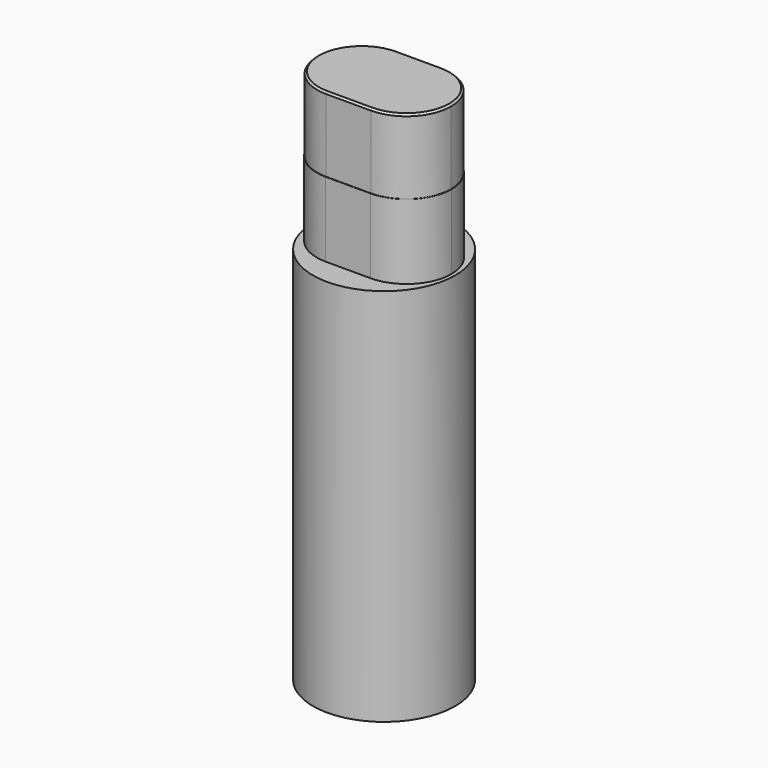
from build123d import *

# Parameters (mm, degrees)
F0_R     = 9.525
F1_DEPTH = 50.8
F3_DEPTH = 10
F5_DEPTH = 10
F6_SIZE  = 0.25


with BuildPart() as f1:
    # F0 (on Top) → F1 (new body)
    with BuildSketch(Plane.XY):
        Circle(F0_R)
    extrude(amount=F1_DEPTH)

    # F2 (on face) → F3 (join)
    with BuildSketch(Plane.XY.offset(50.8)):
        with BuildLine():
            Line((0, 6.025), (0, 0))
            Line((0, 0), (3, 0))
            Line((3, 0), (9.025, 0))
            ThreePointArc((9.025, 0), (7.260318, 4.260318), (3, 6.025))
            Line((3, 6.025), (0, 6.025))
        make_face()
        with BuildLine():
            Line((0, -6.025), (0, 0))
            Line((0, 0), (-3, 0))
            Line((-3, 0), (-9.025, 0))
            ThreePointArc((-9.025, 0), (-7.260318, -4.260318), (-3, -6.025))
            Line((-3, -6.025), (0, -6.025))
        make_face()
        with BuildLine():
            Line((-3, 0), (0, 0))
            Line((0, 0), (0, 6.025))
            Line((0, 6.025), (-3, 6.025))
            ThreePointArc((-3, 6.025), (-7.260318, 4.260318), (-9.025, 0))
            Line((-9.025, 0), (-3, 0))
        make_face()
        with BuildLine():
            Line((3, 0), (0, 0))
            Line((0, 0), (0, -6.025))
            Line((0, -6.025), (3, -6.025))
            ThreePointArc((3, -6.025), (7.260318, -4.260318), (9.025, 0))
            Line((9.025, 0), (3, 0))
        make_face()
    extrude(amount=F3_DEPTH)

    # F4 (on face) → F5 (join)
    with BuildSketch(Plane.XY.offset(60.8)):
        with BuildLine():
            Line((0, 5.975), (0, 0))
            Line((0, 0), (3, 0))
            Line((3, 0), (8.975, 0))
            ThreePointArc((8.975, 0), (7.224963, 4.224963), (3, 5.975))
            Line((3, 5.975), (0, 5.975))
        make_face()
        with BuildLine():
            Line((0, -5.975), (0, 0))
            Line((0, 0), (-3, 0))
            Line((-3, 0), (-8.975, 0))
            ThreePointArc((-8.975, 0), (-7.224963, -4.224963), (-3, -5.975))
            Line((-3, -5.975), (0, -5.975))
        make_face()
        with BuildLine():
            Line((-3, 0), (0, 0))
            Line((0, 0), (0, 5.975))
            Line((0, 5.975), (-3, 5.975))
            ThreePointArc((-3, 5.975), (-7.224963, 4.224963), (-8.975, 0))
            Line((-8.975, 0), (-3, 0))
        make_face()
        with BuildLine():
            Line((3, 0), (0, 0))
            Line((0, 0), (0, -5.975))
            Line((0, -5.975), (3, -5.975))
            ThreePointArc((3, -5.975), (7.224963, -4.224963), (8.975, 0))
            Line((8.975, 0), (3, 0))
        make_face()
    extrude(amount=F5_DEPTH)

    # F6
    f6_edges = [f1.edges().sort_by_distance(p)[0] for p in [
        (0, -5.975, 70.8),
    ]]
    chamfer(f6_edges, length=F6_SIZE)


solid = f1.part
